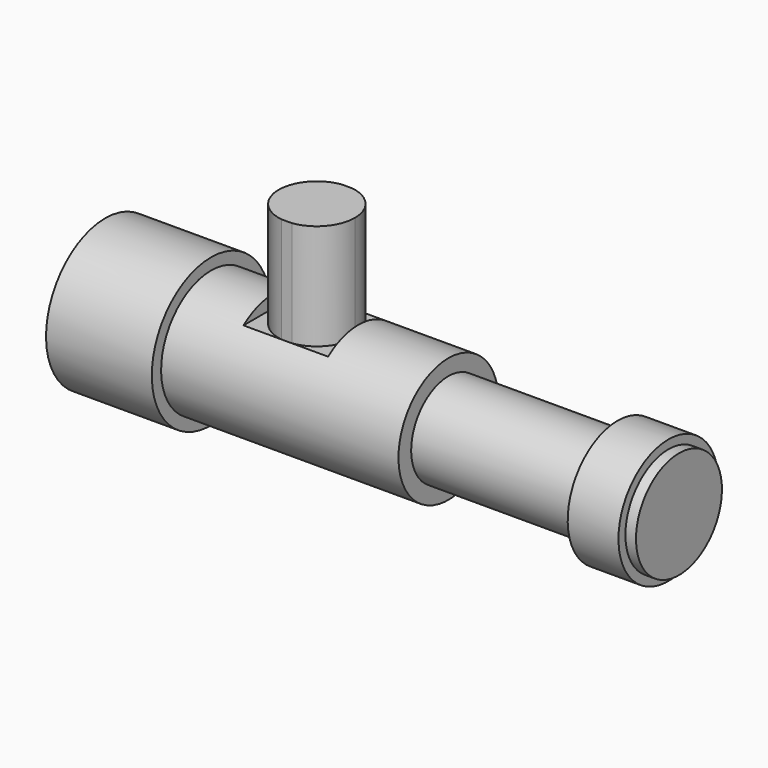
from build123d import *

# Parameters (mm, degrees)
F2_W     = 20
F2_H     = 3
F3_DEPTH = 10.1
F5_DEPTH = 25


with BuildPart() as f1:
    # F0 (on Front) → F1 (revolve)
    with BuildSketch(Plane.XZ):
        Polygon((-81.1, 0), (54.5, 0), (54.5, 12.7), (52, 12.7), (52, 14.75), (40, 14.75), (40, 11), (0, 11), (0, 14.75), (-56.1, 14.75), (-56.1, 17.5), (-81.1, 17.5), align=None)
    revolve(axis=Axis((-19.562621, 0, 0), (-1, 0, 0)))

    # F2 (on Front) → F3 (cut, symmetric)
    with BuildSketch(Plane.XZ):
        with Locations((-31.3, 13.25)):
            Rectangle(F2_W, F2_H)
    extrude(amount=F3_DEPTH, both=True, mode=Mode.SUBTRACT)

    # F4 (on face) → F5 (join)
    with BuildSketch(Plane.XY.offset(11.75)):
        with BuildLine():
            ThreePointArc((-29.875255, -8.916277), (-24.316833, -5.91512), (-22.1, 0))
            ThreePointArc((-22.1, 0), (-24.316833, 5.91512), (-29.875255, 8.916277))
            Line((-29.875255, 8.916277), (-32.324745, 8.916277))
            ThreePointArc((-32.324745, 8.916277), (-40.1, 0), (-32.324745, -8.916277))
            Line((-32.324745, -8.916277), (-29.875255, -8.916277))
        make_face()
    extrude(amount=F5_DEPTH)


solid = f1.part
